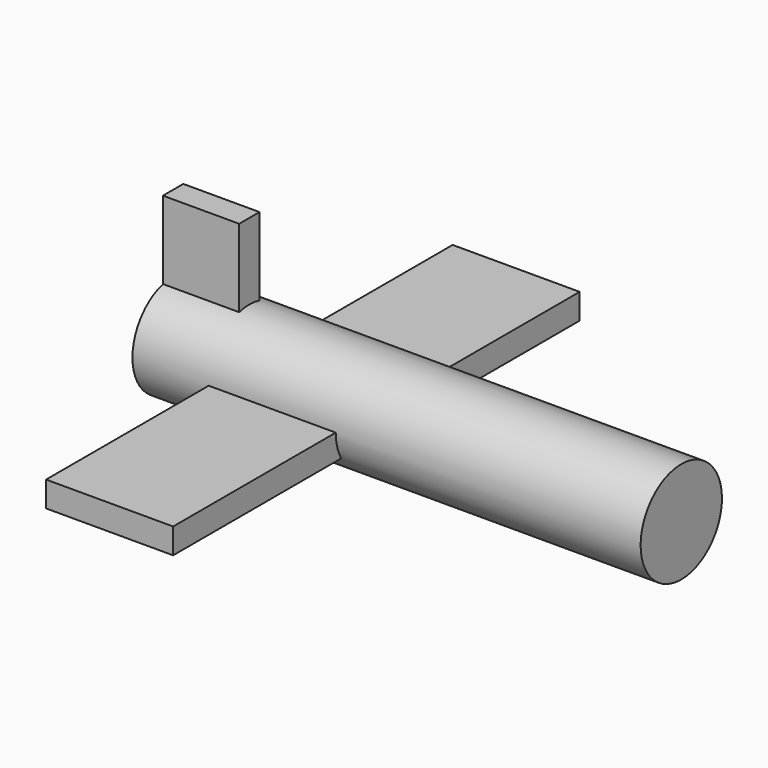
from build123d import *

# Parameters (mm, degrees)
BOX001_W       = 3
BOX001_H       = 1
BOX001_DEPTH   = 5
CYLINDER_R     = 2
CYLINDER_DEPTH = 20
BOX_W          = 5
BOX_H          = 20
BOX_DEPTH      = 1


with BuildPart() as cube001:
    # Box001 → Box001 (new body)
    with BuildSketch(Plane(origin=(0, -0.5, 0), x_dir=(1, 0, 0), z_dir=(0, 0, 1))):
        with Locations((1.5, 0.5)):
            Rectangle(BOX001_W, BOX001_H)
    extrude(amount=BOX001_DEPTH)


with BuildPart() as cylinder:
    # Cylinder → Cylinder (new body)
    with BuildSketch(Plane(origin=(0, 0, 0), x_dir=(0, 0, -1), z_dir=(1, 0, 0))):
        Circle(CYLINDER_R)
    extrude(amount=CYLINDER_DEPTH)


with BuildPart() as aeroplane:
    # Box → Box (new body)
    with BuildSketch(Plane(origin=(3, -10, -1), x_dir=(1, 0, 0), z_dir=(0, 0, 1))):
        with Locations((2.5, 10)):
            Rectangle(BOX_W, BOX_H)
    extrude(amount=BOX_DEPTH)

    # Fusion: union Cylinder
    add(cylinder.part)

    # Fusion001: union Cube001
    add(cube001.part)


solid = aeroplane.part
